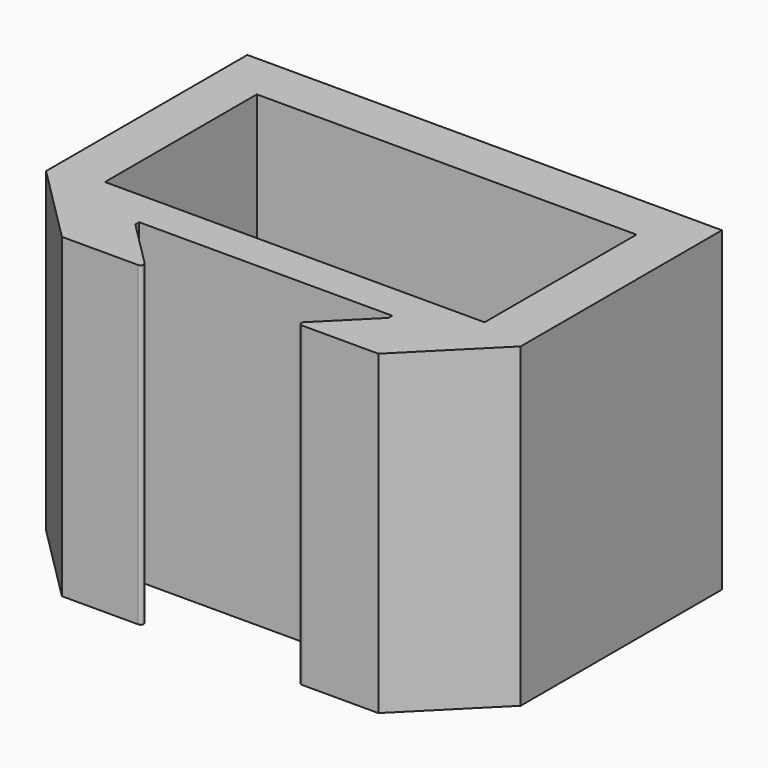
from build123d import *

# Parameters (mm, degrees)
F0_W     = 24
F0_H     = 12
F1_DEPTH = 10


with BuildPart() as f1:
    # F0 (on Top) → F1 (new body, symmetric)
    with BuildSketch(Plane.XY):
        with BuildLine():
            Line((15, 17.3), (-15, 17.3))
            Line((-15, 17.3), (-15, 1.4))
            Line((-15, 1.4), (-10, -3.6))
            Line((-10, -3.6), (-5.1828427125, -3.6))
            ThreePointArc((-5.1828427125, -3.6), (-4.998066806, -3.4765366865), (-5.0414213562, -3.2585786438))
            Line((-5.0414213562, -3.2585786438), (-8, -0.3))
            Line((-8, -0.3), (-8, 0))
            Line((-8, 0), (8, 0))
            Line((8, 0), (8, -0.3))
            Line((8, -0.3), (5.0414213562, -3.2585786438))
            ThreePointArc((5.0414213562, -3.2585786438), (4.998066806, -3.4765366865), (5.1828427125, -3.6))
            Line((5.1828427125, -3.6), (10, -3.6))
            Line((10, -3.6), (15, 1.4))
            Line((15, 1.4), (15, 17.3))
        make_face()
        with Locations((0, 8.3)):
            Rectangle(F0_W, F0_H, mode=Mode.SUBTRACT)
    extrude(amount=F1_DEPTH, both=True)


solid = f1.part
